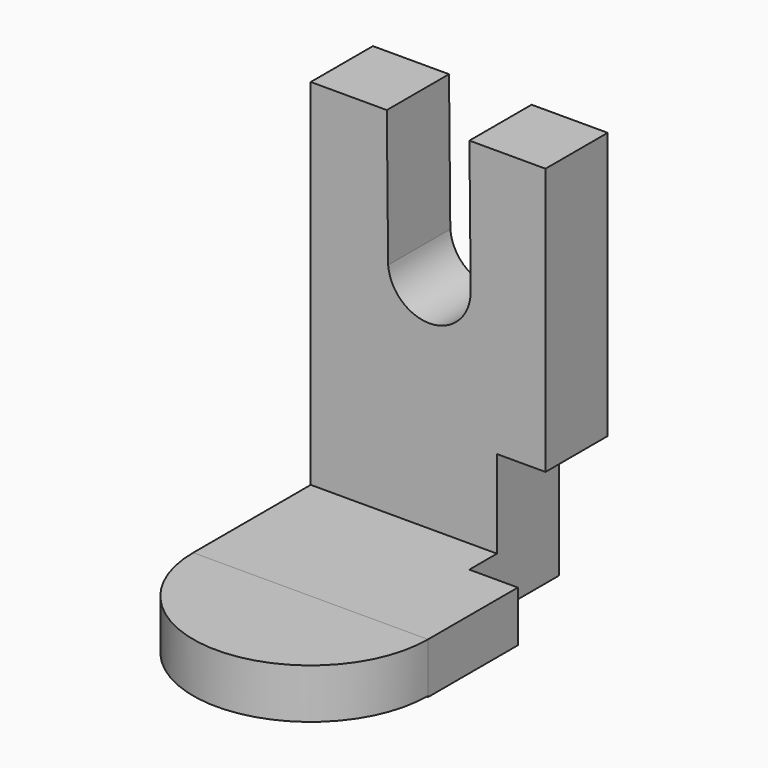
from build123d import *

# Parameters (mm, degrees)
F0_W     = 76.706789434
F0_H     = 16.6184976697
F1_DEPTH = 25.4
F2_DEPTH = 73.406
F4_DEPTH = 16.256
F5_W     = 15.856044367
F5_H     = 28.6552160978
F6_DEPTH = 177.8
F8_DEPTH = 177.8


with BuildPart() as f1:
    # F0 (on Front) → F1 (new body)
    with BuildSketch(Plane.XZ):
        with BuildLine():
            Line((-13.1827415898, 67.5745382905), (-38.0419902503, 67.5745382905))
            Line((-38.0419902503, 67.5745382905), (-38.0419902503, -48.3142435551))
            Line((-38.0419902503, -48.3142435551), (38.6647991836, -48.3142435551))
            Line((38.6647991836, -48.3142435551), (38.6647991836, 67.5745382905))
            Line((38.6647991836, 67.5745382905), (13.8055505231, 67.5745382905))
            Line((13.8055505231, 67.5745382905), (14.2207480967, 24.3932679296))
            ThreePointArc((14.2207480967, 24.3932679296), (1.3330005571, 10.7661984691), (-12.7555682648, 23.1477689379))
            Line((-12.7555682648, 23.1477689379), (-13.1827415898, 67.5745382905))
        make_face()
        with Locations((0.3114044666, -56.6234923899)):
            Rectangle(F0_W, F0_H)
    extrude(amount=F1_DEPTH)

    # F0 (on Front) → F2 (join)
    with BuildSketch(Plane.XZ):
        with Locations((0.3114044666, -56.6234923899)):
            Rectangle(F0_W, F0_H)
    extrude(amount=F2_DEPTH)

    # F5 (on face) → F6 (cut)
    with BuildSketch(Plane.XZ.offset(25.4)):
        with Locations((30.7367770001, -33.9866355062)):
            Rectangle(F5_W, F5_H)
    extrude(amount=-F6_DEPTH, mode=Mode.SUBTRACT)

    # F7 (on face) → F8 (cut)
    with BuildSketch(Plane.XY.offset(-48.3142435551)):
        Polygon((22.8087548167, 0), (22.8087548167, -25.4), (22.8087548167, -36.703), (38.6647991836, -36.703), (38.6647991836, 0), align=None)
    extrude(amount=-F8_DEPTH, mode=Mode.SUBTRACT)


with BuildPart() as f4:
    # F3 (on face) → F4 (new body)
    with BuildSketch(Plane.XY.offset(-48.3142435551)):
        with BuildLine():
            Line((38.6647991836, -73.406), (-38.0419902503, -73.406))
            ThreePointArc((-38.0419902503, -73.406), (0.3114044666, -111.759394717), (38.6647991836, -73.406))
        make_face()
    extrude(amount=-F4_DEPTH)


solid = Compound([f1.part, f4.part])
